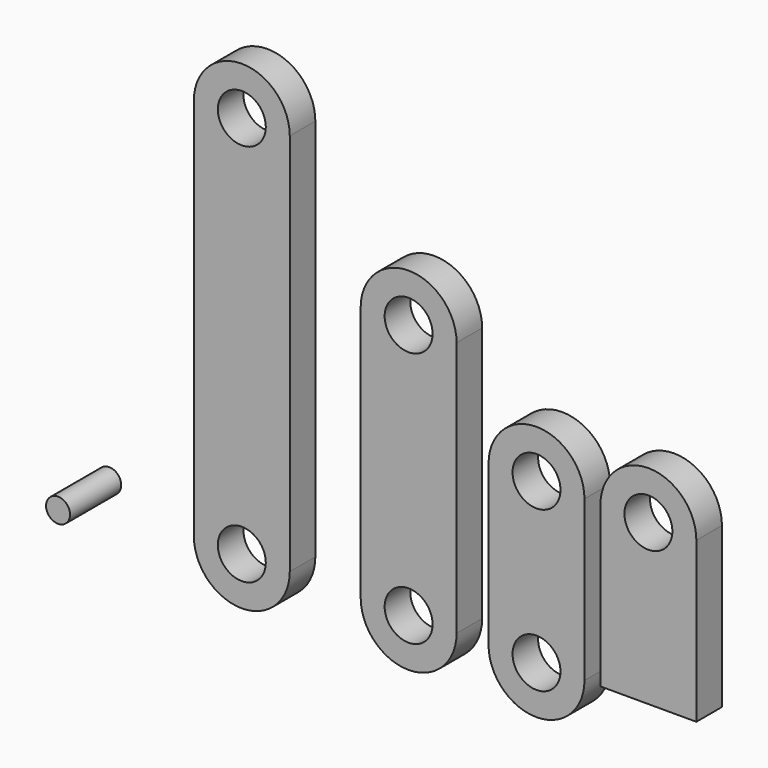
from build123d import *

# Parameters (mm, degrees)
F1_R      = 7.5
F2_DEPTH  = 10
F3_R      = 7.5
F4_DEPTH  = 10
F5_R      = 7.5
F6_DEPTH  = 10
F7_R      = 7.5
F8_DEPTH  = 10
F9_R      = 3.75
F10_DEPTH = 20


with BuildPart() as f2:
    # F1 (on Front) → F2 (new body)
    with BuildSketch(Plane.XZ):
        with BuildLine():
            ThreePointArc((-40, 50), (-25, 35), (-10, 50))
            ThreePointArc((-10, 50), (-25, 65), (-40, 50))
        make_face()
        with Locations((-25, 50)):
            Circle(F1_R, mode=Mode.SUBTRACT)
        with BuildLine():
            Line((-40, 0), (-10, 0))
            Line((-10, 0), (-10, 50))
            ThreePointArc((-10, 50), (-25, 35), (-40, 50))
            Line((-40, 50), (-40, 0))
        make_face()
    extrude(amount=F2_DEPTH)


with BuildPart() as f4:
    # F3 (on Front) → F4 (new body)
    with BuildSketch(Plane.XZ):
        with BuildLine():
            ThreePointArc((-45, 50), (-60, 65), (-75, 50))
            ThreePointArc((-75, 50), (-60, 35), (-45, 50))
        make_face()
        with Locations((-60, 50)):
            Circle(F3_R, mode=Mode.SUBTRACT)
        with BuildLine():
            Line((-75, 50), (-75, 0))
            ThreePointArc((-75, 0), (-60, 15), (-45, 0))
            Line((-45, 0), (-45, 50))
            ThreePointArc((-45, 50), (-60, 35), (-75, 50))
        make_face()
        with BuildLine():
            ThreePointArc((-45, 0), (-60, 15), (-75, 0))
            ThreePointArc((-75, 0), (-60, -15), (-45, 0))
        make_face()
        with Locations((-60, 0)):
            Circle(F3_R, mode=Mode.SUBTRACT)
    extrude(amount=F4_DEPTH)


with BuildPart() as f6:
    # F5 (on Front) → F6 (new body)
    with BuildSketch(Plane.XZ):
        with BuildLine():
            Line((-115, 80), (-115, 0))
            ThreePointArc((-115, 0), (-100, 15), (-85, 0))
            Line((-85, 0), (-85, 80))
            ThreePointArc((-85, 80), (-100, 65), (-115, 80))
        make_face()
        with BuildLine():
            ThreePointArc((-85, 80), (-100, 95), (-115, 80))
            ThreePointArc((-115, 80), (-100, 65), (-85, 80))
        make_face()
        with Locations((-100, 80)):
            Circle(F5_R, mode=Mode.SUBTRACT)
        with BuildLine():
            ThreePointArc((-85, 0), (-100, 15), (-115, 0))
            ThreePointArc((-115, 0), (-100, -15), (-85, 0))
        make_face()
        with Locations((-100, 0)):
            Circle(F5_R, mode=Mode.SUBTRACT)
    extrude(amount=F6_DEPTH)


with BuildPart() as f8:
    # F7 (on Front) → F8 (new body)
    with BuildSketch(Plane.XZ):
        with BuildLine():
            ThreePointArc((-137.1839883041, 120), (-152.1839883041, 135), (-167.1839883041, 120))
            ThreePointArc((-167.1839883041, 120), (-152.1839883041, 105), (-137.1839883041, 120))
        make_face()
        with Locations((-152.1839883041, 120)):
            Circle(F7_R, mode=Mode.SUBTRACT)
        with BuildLine():
            Line((-167.1839883041, 120), (-167.1839883041, 0))
            ThreePointArc((-167.1839883041, 0), (-152.1839883041, 15), (-137.1839883041, 0))
            Line((-137.1839883041, 0), (-137.1839883041, 120))
            ThreePointArc((-137.1839883041, 120), (-152.1839883041, 105), (-167.1839883041, 120))
        make_face()
        with BuildLine():
            ThreePointArc((-137.1839883041, 0), (-152.1839883041, 15), (-167.1839883041, 0))
            ThreePointArc((-167.1839883041, 0), (-152.1839883041, -15), (-137.1839883041, 0))
        make_face()
        with Locations((-152.1839883041, 0)):
            Circle(F7_R, mode=Mode.SUBTRACT)
    extrude(amount=F8_DEPTH)


with BuildPart() as f10:
    # F9 (on Front) → F10 (new body)
    with BuildSketch(Plane.XZ):
        with Locations((-201.671525836, 0)):
            Circle(F9_R)
    extrude(amount=F10_DEPTH)


solid = Compound([f2.part, f4.part, f6.part, f8.part, f10.part])
